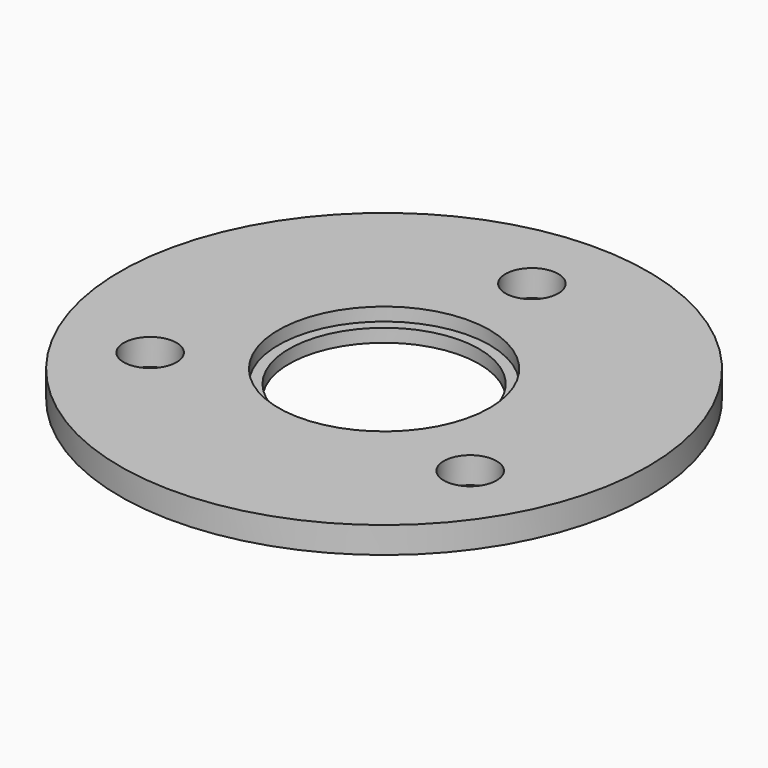
from build123d import *

# Parameters (mm, degrees)
F0_R     = 12.7
F0_R_2   = 11.43
F1_DEPTH = 1.5875
F0_R_3   = 31.75
F0_R_4   = 3.175
F2_DEPTH = 3.175


with BuildPart() as f1:
    # F0 (on Top) → F1 (new body)
    with BuildSketch(Plane.XY):
        Circle(F0_R)
        Circle(F0_R_2, mode=Mode.SUBTRACT)
    extrude(amount=F1_DEPTH)

    # F0 (on Top) → F2 (join)
    with BuildSketch(Plane.XY):
        Circle(F0_R_3)
        with Locations((-19.247415, -11.1125)):
            Circle(F0_R_4, mode=Mode.SUBTRACT)
        with Locations((19.247415, -11.1125)):
            Circle(F0_R_4, mode=Mode.SUBTRACT)
        Circle(F0_R, mode=Mode.SUBTRACT)
        with Locations((0, 22.225)):
            Circle(F0_R_4, mode=Mode.SUBTRACT)
    extrude(amount=F2_DEPTH)


solid = f1.part
